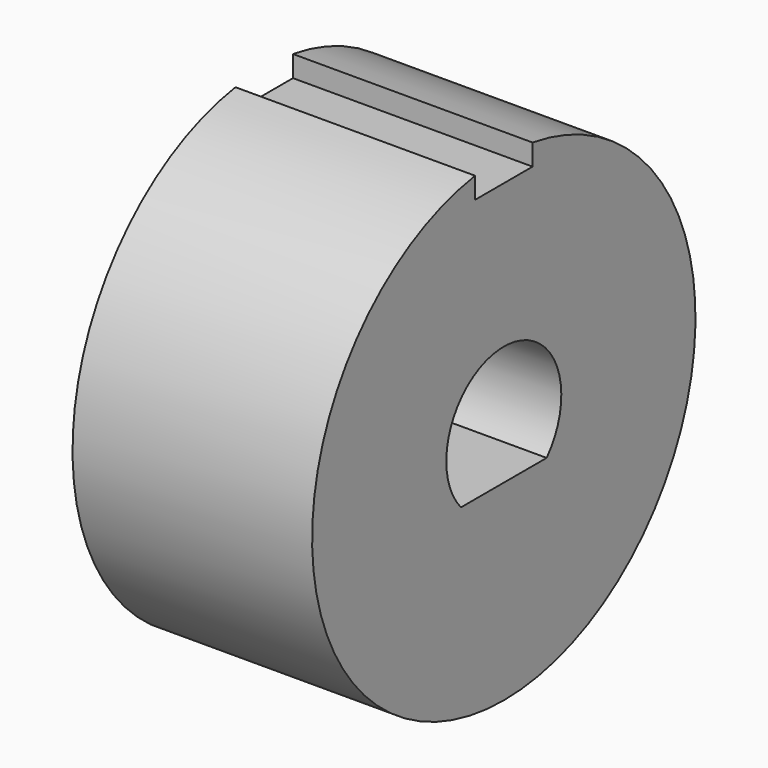
from build123d import *

# Parameters (mm, degrees)
F1_DEPTH = 25.4


with BuildPart() as f1:
    # F0 (on Right) → F1 (new body)
    with BuildSketch(Plane.YZ):
        with BuildLine():
            Line((-3.81, 22.86), (-3.81, 25.112624))
            ThreePointArc((-3.81, 25.112624), (0, -25.4), (3.81, 25.112624))
            Line((3.81, 25.112624), (3.81, 22.86))
            Line((3.81, 22.86), (-3.81, 22.86))
        make_face()
        with BuildLine():
            ThreePointArc((-5.679613, -5.08), (0, 7.62), (5.679613, -5.08))
            Line((5.679613, -5.08), (-5.679613, -5.08))
        make_face(mode=Mode.SUBTRACT)
    extrude(amount=F1_DEPTH)


solid = f1.part
